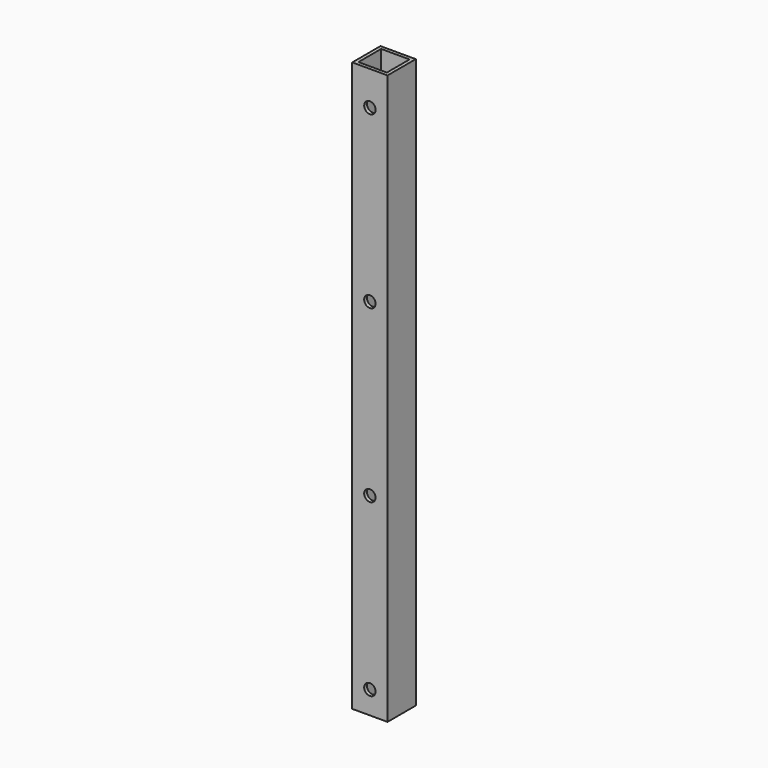
from build123d import *

# Parameters (mm, degrees)
F0_W          = 31
F0_H          = 31
F0_W_2        = 25
F0_H_2        = 25
F1_DEPTH      = 500
F2_R          = 5
F3_DEPTH      = 15.501
F3_DEPTH_BACK = 15.501


with BuildPart() as f1:
    # F0 (on Top) → F1 (new body)
    with BuildSketch(Plane.XY):
        Rectangle(F0_W, F0_H)
        Rectangle(F0_W_2, F0_H_2, mode=Mode.SUBTRACT)
    extrude(amount=F1_DEPTH)

    # F2 (on Front) → F3 (cut, two sides)
    with BuildSketch(Plane.XZ) as f3_sk:
        with Locations((0, 470)):
            Circle(F2_R)
        with Locations((0, 320)):
            Circle(F2_R)
        with Locations((0, 170)):
            Circle(F2_R)
        with Locations((0, 20)):
            Circle(F2_R)
    extrude(amount=F3_DEPTH, mode=Mode.SUBTRACT)
    extrude(f3_sk.sketch, amount=-F3_DEPTH_BACK, mode=Mode.SUBTRACT)


solid = f1.part
